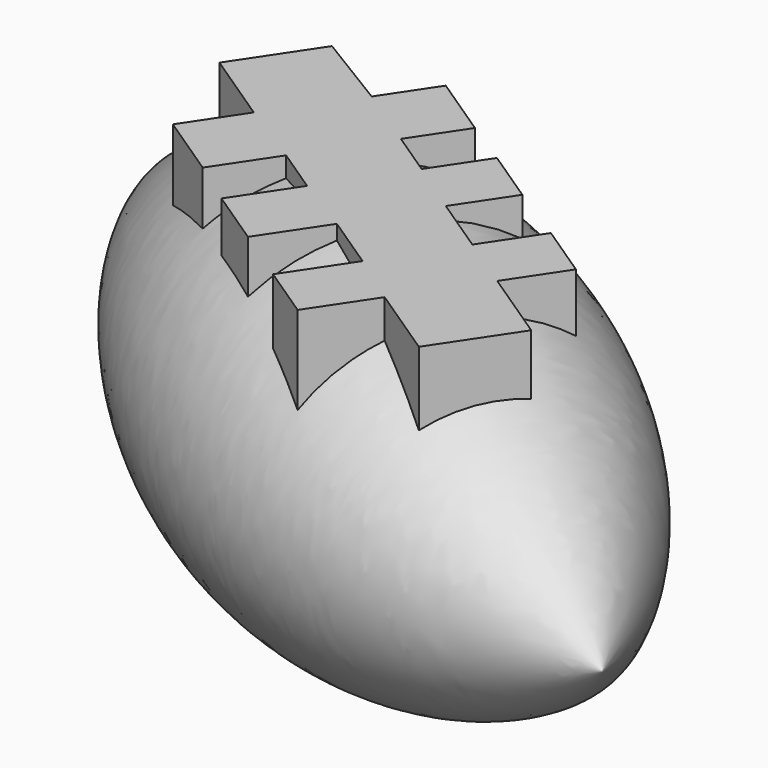
from build123d import *

# Parameters (mm, degrees)
F3_DEPTH = 19.05


with BuildPart() as f1:
    # F0 (on Top) → F1 (revolve)
    with BuildSketch(Plane.XY):
        with BuildLine():
            Line((-76.0552585125, 0), (0, -42.423157364))
            ThreePointArc((0, -42.423157364), (-29.1006473798, -5.2074913736), (-76.0552585125, 0))
        make_face()
    revolve(axis=Axis((-38.0276292562, -21.211578682, 0), (0.8733261392, -0.4871359714, 0)))

    # F2 (on Top) → F3 (join)
    with BuildSketch(Plane.XY):
        Polygon((-49.1658268881, -8.7741626016), (-56.6204562783, -4.2306520045), (-61.5438148379, -11.615794152), (-54.4649142127, -16.3349945803), (-58.0043645253, -21.6442450373), (-51.8502303982, -25.7469431746), (-48.2021556675, -20.274753789), (-43.8682081282, -23.1640113399), (-47.6154070162, -28.7848890613), (-42.1543124378, -32.4255673584), (-38.2623852596, -26.5875941352), (-32.9637124881, -30.1199927571), (-36.8818058841, -35.9972158613), (-31.8068922232, -39.3804438497), (-28.0000456491, -33.6700933354), (-20.9460220972, -38.3727092824), (-16.0288748193, -30.9968841891), (-23.0400803267, -26.3228132019), (-19.5967774278, -21.1577859026), (-24.7653332462, -17.7121306909), (-28.2013270643, -22.8661942142), (-33.6780085941, -19.215124763), (-30.3294161942, -14.1921652185), (-35.5646448761, -10.702062059), (-38.8605695903, -15.6460189589), (-43.1442006543, -12.790305251), (-39.902242998, -7.9273000814), (-45.9246916244, -3.9123910381), align=None)
    extrude(amount=F3_DEPTH)


solid = f1.part
